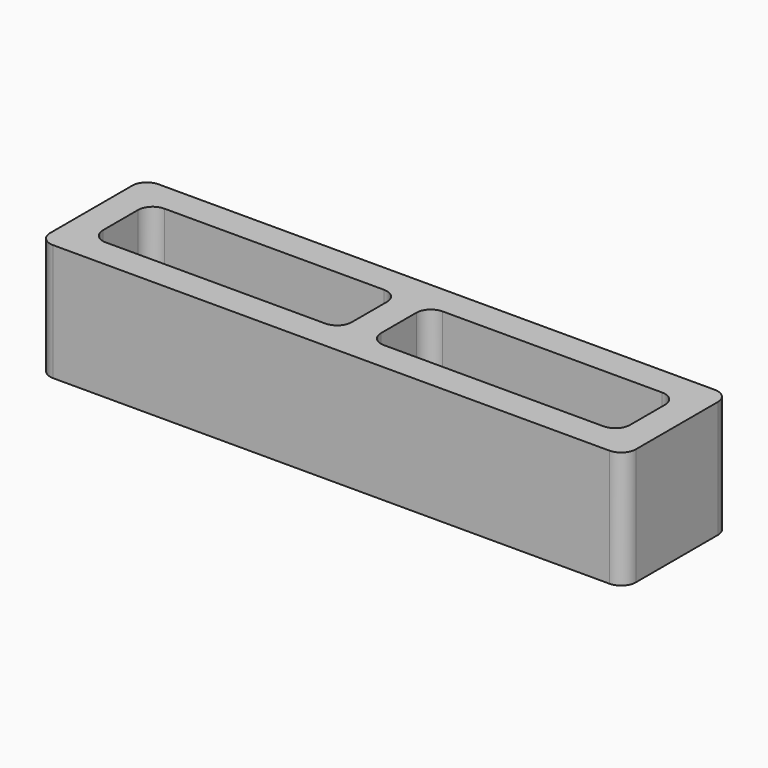
from build123d import *

# Parameters (mm, degrees)
F0_W     = 40
F0_H     = 9
F0_W_2   = 16.9967
F0_H_2   = 5
F1_DEPTH = 8
F2_R     = 1
F3_R     = 1


with BuildPart() as f1:
    # F0 (on Top) → F1 (new body)
    with BuildSketch(Plane.XY):
        Rectangle(F0_W, F0_H)
        with Locations((-9.50165, 0)):
            Rectangle(F0_W_2, F0_H_2, mode=Mode.SUBTRACT)
        with Locations((9.50165, 0)):
            Rectangle(F0_W_2, F0_H_2, mode=Mode.SUBTRACT)
    extrude(amount=F1_DEPTH)

    # F2
    f2_edges = [f1.edges().sort_by_distance(p)[0] for p in [
        (-20, -4.5, 4),
        (-20, 4.5, 4),
        (20, -4.5, 4),
        (20, 4.5, 4),
    ]]
    fillet(f2_edges, radius=F2_R)

    # F3
    f3_edges = [f1.edges().sort_by_distance(p)[0] for p in [
        (1.0033, -2.5, 4),
        (1.0033, 2.5, 4),
        (-1.0033, 2.5, 4),
        (-1.0033, -2.5, 4),
        (-18, -2.5, 4),
        (-18, 2.5, 4),
        (18, 2.5, 4),
        (18, -2.5, 4),
    ]]
    fillet(f3_edges, radius=F3_R)


solid = f1.part
